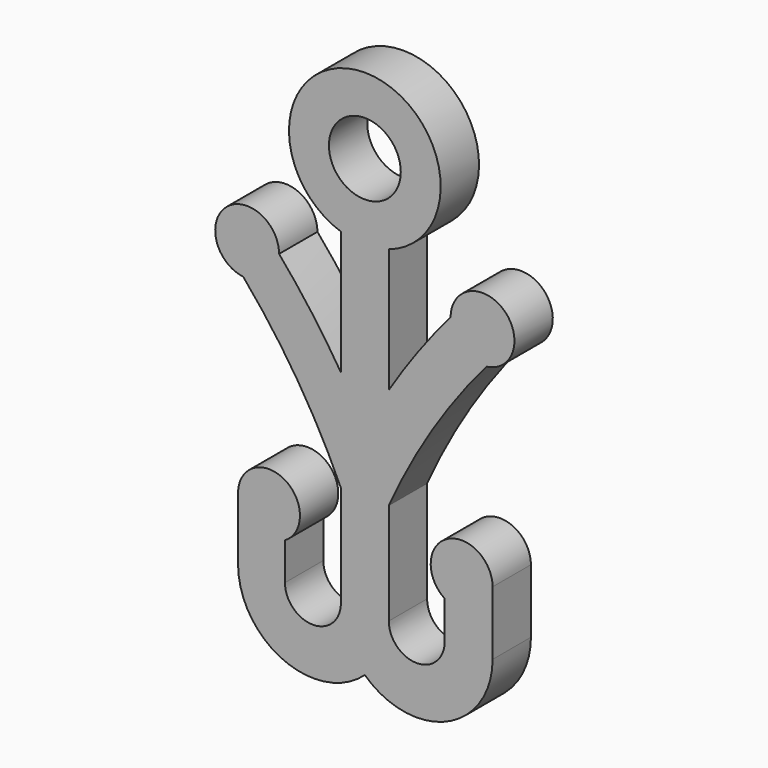
from build123d import *

# Parameters (mm, degrees)
F1_R     = 2.25
F0_DEPTH = 3


with BuildPart() as f0:
    # F1 (on Front) → F0 (new body)
    with BuildSketch(Plane.XZ):
        with BuildLine():
            Line((1.5, -12.267864), (1.5, -4.506939))
            ThreePointArc((1.5, -4.506939), (0, 4.75), (-1.5, -4.506939))
            Line((-1.5, -4.506939), (-1.5, -12.267864))
            ThreePointArc((-1.5, -12.267864), (-3.332627, -9.5604), (-5.365662, -7))
            Line((-5.365662, -7), (-5.369133, -7))
            ThreePointArc((-5.369133, -7), (-5.369134, -6.997975), (-5.369137, -6.99595))
            ThreePointArc((-5.369137, -6.99595), (-8.694828, -5.502491), (-7.615687, -8.984745))
            ThreePointArc((-7.615687, -8.984745), (-4.211407, -13.591334), (-1.5, -18.636932))
            Line((-1.5, -18.636932), (-1.5, -25))
            ThreePointArc((-1.5, -25), (-3.25, -26.75), (-5, -25))
            Line((-5, -25), (-5, -22.65949))
            ThreePointArc((-5, -22.65949), (-5.047003, -19.313079), (-7.9375, -21))
            Line((-7.9375, -21), (-7.9375, -25))
            ThreePointArc((-7.9375, -25), (-5.087796, -29.296187), (0, -28.464102))
            ThreePointArc((0, -28.464102), (5.137459, -29.358899), (8, -25))
            Line((8, -25), (8, -21))
            ThreePointArc((8, -21), (5.140673, -19.295007), (5, -22.621111))
            Line((5, -22.621111), (5, -25))
            ThreePointArc((5, -25), (3.25, -26.75), (1.5, -25))
            Line((1.5, -25), (1.5, -18.636932))
            ThreePointArc((1.5, -18.636932), (4.211407, -13.591334), (7.615687, -8.984745))
            ThreePointArc((7.615687, -8.984745), (8.694828, -5.502491), (5.369137, -6.99595))
            ThreePointArc((5.369137, -6.99595), (5.369134, -6.997975), (5.369133, -7))
            Line((5.369133, -7), (5.365662, -7))
            ThreePointArc((5.365662, -7), (3.332627, -9.5604), (1.5, -12.267864))
        make_face()
        Circle(F1_R, mode=Mode.SUBTRACT)
        with BuildLine():
            ThreePointArc((5.369137, -6.99595), (5.3674, -6.997975), (5.365662, -7))
            Line((5.365662, -7), (5.369133, -7))
            ThreePointArc((5.369133, -7), (5.369134, -6.997975), (5.369137, -6.99595))
        make_face()
        with BuildLine():
            Line((-5.369133, -7), (-5.365662, -7))
            ThreePointArc((-5.365662, -7), (-5.3674, -6.997975), (-5.369137, -6.99595))
            ThreePointArc((-5.369137, -6.99595), (-5.369134, -6.997975), (-5.369133, -7))
        make_face()
    extrude(amount=F0_DEPTH)


solid = f0.part
